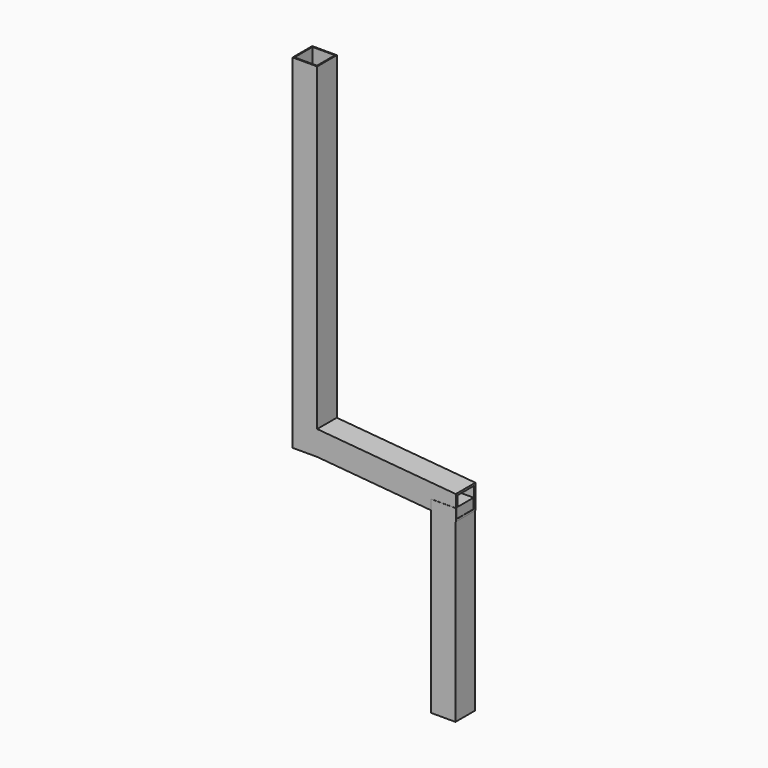
from build123d import *

# Parameters (mm, degrees)
F0_W     = 3.175
F0_H     = 76.2
F0_W_2   = 69.85
F1_DEPTH = 1066.8
F5_W     = 69.85
F5_H     = 69.85
F6_DEPTH = 1066.801
F7_W     = 76.2
F7_H     = 76.6029041231
F8_DEPTH = 584.2


with BuildPart() as f1:
    # F0 (on Top) → F1 (new body)
    with BuildSketch(Plane.XY):
        with Locations((-36.5125, 0)):
            Rectangle(F0_W, F0_H)
        Rectangle(F0_W_2, F0_H)
        with Locations((36.5125, 0)):
            Rectangle(F0_W, F0_H)
    extrude(amount=F1_DEPTH)

    # F4: sweep along a path in F3
    with BuildLine(Plane.XZ) as f4_path:
        Line((38.2661430364, 38.2113192024), (468.4230136724, 0.577469484))
    # F2 (on face) → F4 (sweep)
    with BuildSketch(Plane.YZ.offset(38.1)):
        Polygon((-38.1, 0), (0, 0), (38.1, 0), (38.1, 76.2), (-38.1, 76.2), align=None)
        Polygon((31.75, 6.35), (0, 6.35), (-31.75, 6.35), (-31.75, 69.85), (31.75, 69.85), align=None, mode=Mode.SUBTRACT)
    sweep(path=f4_path.line)

    # F5 (on Top) → F6 (cut, through all)
    with BuildSketch(Plane.XY):
        Rectangle(F5_W, F5_H)
    extrude(amount=F6_DEPTH, mode=Mode.SUBTRACT)

    # F7 (on Top) → F8 (join)
    with BuildSketch(Plane.XY):
        with Locations((429.5848959012, -0.2014520615)):
            Rectangle(F7_W, F7_H)
    extrude(amount=-F8_DEPTH)


solid = f1.part
